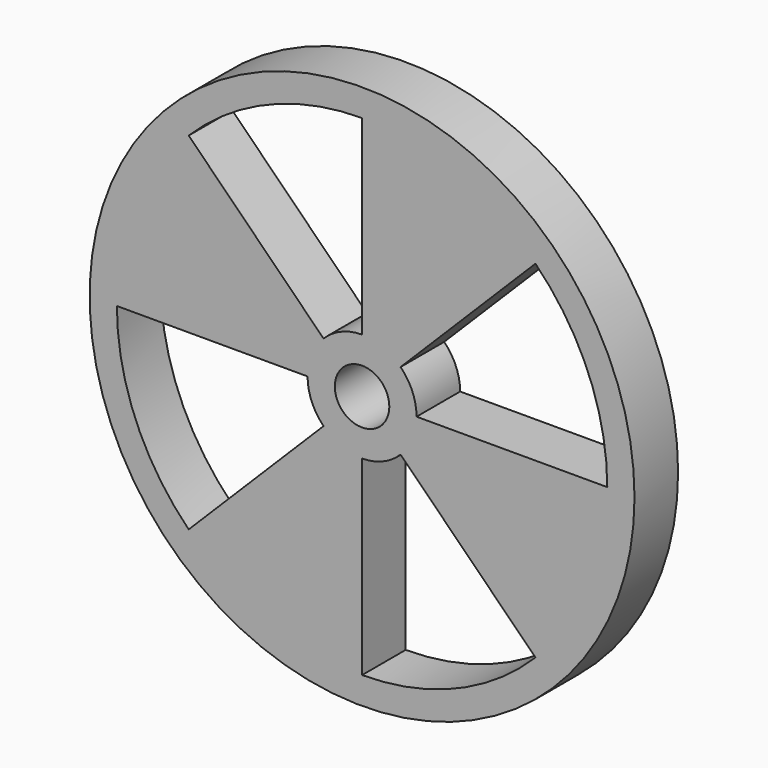
from build123d import *

# Parameters (mm, degrees)
F0_R     = 15.875
F0_R_2   = 1.5875
F1_DEPTH = 3.175


with BuildPart() as f1:
    # F0 (on Front) → F1 (new body)
    with BuildSketch(Plane.XZ):
        Circle(F0_R)
        with BuildLine():
            ThreePointArc((10.102788, 10.102788), (13.199929, 5.46759), (14.2875, 0))
            ThreePointArc((14.2875, 0), (13.199929, -5.46759), (10.102788, -10.102788))
            ThreePointArc((10.102788, -10.102788), (5.46759, -13.199929), (0, -14.2875))
            ThreePointArc((0, -14.2875), (-5.46759, -13.199929), (-10.102788, -10.102788))
            ThreePointArc((-10.102788, -10.102788), (-13.199929, -5.46759), (-14.2875, 0))
            ThreePointArc((-14.2875, 0), (-13.199929, 5.46759), (-10.102788, 10.102788))
            ThreePointArc((-10.102788, 10.102788), (-5.46759, 13.199929), (0, 14.2875))
            ThreePointArc((0, 14.2875), (5.46759, 13.199929), (10.102788, 10.102788))
        make_face(mode=Mode.SUBTRACT)
        with BuildLine():
            Line((2.245064, 2.245064), (10.102788, 10.102788))
            ThreePointArc((10.102788, 10.102788), (5.46759, 13.199929), (0, 14.2875))
            Line((0, 14.2875), (0, 3.175))
            ThreePointArc((0, 3.175), (1.21502, 2.933318), (2.245064, 2.245064))
        make_face()
        with BuildLine():
            ThreePointArc((10.102788, -10.102788), (13.199929, -5.46759), (14.2875, 0))
            Line((14.2875, 0), (3.175, 0))
            ThreePointArc((3.175, 0), (2.933318, -1.21502), (2.245064, -2.245064))
            Line((2.245064, -2.245064), (10.102788, -10.102788))
        make_face()
        with BuildLine():
            ThreePointArc((-10.102788, -10.102788), (-5.46759, -13.199929), (0, -14.2875))
            Line((0, -14.2875), (0, -3.175))
            ThreePointArc((0, -3.175), (-1.21502, -2.933318), (-2.245064, -2.245064))
            Line((-2.245064, -2.245064), (-10.102788, -10.102788))
        make_face()
        with BuildLine():
            Line((-2.245064, 2.245064), (-10.102788, 10.102788))
            ThreePointArc((-10.102788, 10.102788), (-13.199929, 5.46759), (-14.2875, 0))
            Line((-14.2875, 0), (-3.175, 0))
            ThreePointArc((-3.175, 0), (-2.933318, 1.21502), (-2.245064, 2.245064))
        make_face()
        with BuildLine():
            ThreePointArc((2.245064, -2.245064), (2.933318, -1.21502), (3.175, 0))
            ThreePointArc((3.175, 0), (2.933318, 1.21502), (2.245064, 2.245064))
            ThreePointArc((2.245064, 2.245064), (1.21502, 2.933318), (0, 3.175))
            ThreePointArc((0, 3.175), (-1.21502, 2.933318), (-2.245064, 2.245064))
            ThreePointArc((-2.245064, 2.245064), (-2.933318, 1.21502), (-3.175, 0))
            ThreePointArc((-3.175, 0), (-2.933318, -1.21502), (-2.245064, -2.245064))
            ThreePointArc((-2.245064, -2.245064), (-1.21502, -2.933318), (0, -3.175))
            ThreePointArc((0, -3.175), (1.21502, -2.933318), (2.245064, -2.245064))
        make_face()
        Circle(F0_R_2, mode=Mode.SUBTRACT)
    extrude(amount=F1_DEPTH)


solid = f1.part
